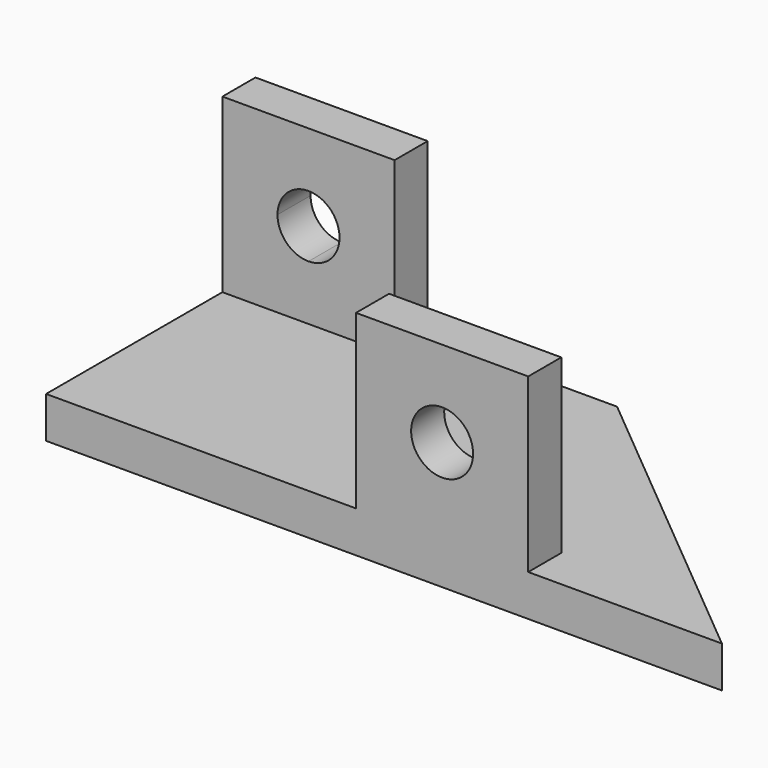
from build123d import *

# Parameters (mm, degrees)
F0_W     = 4.572
F0_H     = 1.524
F0_W_2   = 1.778
F0_H_2   = 8.128
F0_W_3   = 6.35
F1_DEPTH = 1.524
F2_W     = 6.35
F2_H     = 1.524
F3_DEPTH = 6.35
F5_DEPTH = 2.54
F6_DEPTH = 6.35
F7_R     = 1.143
F8_DEPTH = 2.54


with BuildPart() as f1:
    # F0 (on Top) → F1 (new body)
    with BuildSketch(Plane.XY):
        with Locations((3.159252, -4.064)):
            Rectangle(F0_W, F0_H)
        with Locations((-0.015748, 0.762)):
            Rectangle(F0_W_2, F0_H_2)
        Polygon((-0.904748, -3.302), (-0.904748, 4.826), (-6.111748, 4.826), (-6.111748, 3.302), (-12.461748, 3.302), (-12.461748, -4.826), (-0.904748, -4.826), align=None)
        Polygon((7.2287730873, -4.826), (12.461748, -4.826), (0.873252, 4.826), (0.873252, -3.302), (5.445252, -3.302), (5.445252, -4.826), align=None)
        with Locations((-9.286748, 4.064)):
            Rectangle(F0_W_3, F0_H)
        with Locations((-0.015748, -4.064)):
            Rectangle(F0_W_2, F0_H)
    extrude(amount=F1_DEPTH)

    # F2 (on face) → F3 (join)
    with BuildSketch(Plane.XY.offset(1.524)):
        with Locations((-9.286748, 4.064)):
            Rectangle(F2_W, F2_H)
    extrude(amount=F3_DEPTH)

    # F4 (on face) → F5 (cut)
    with BuildSketch(Plane.XZ.offset(-3.302)):
        with BuildLine():
            Line((-9.286748, 4.699), (-8.143748, 4.699))
            ThreePointArc((-8.143748, 4.699), (-8.4785249491, 5.5072230509), (-9.286748, 5.842))
            Line((-9.286748, 5.842), (-9.286748, 4.699))
        make_face()
        with BuildLine():
            Line((-10.429748, 4.699), (-9.286748, 4.699))
            Line((-9.286748, 4.699), (-9.286748, 5.842))
            ThreePointArc((-9.286748, 5.842), (-10.0949710509, 5.5072230509), (-10.429748, 4.699))
        make_face()
        with BuildLine():
            Line((-9.286748, 3.556), (-9.286748, 4.699))
            Line((-9.286748, 4.699), (-10.429748, 4.699))
            ThreePointArc((-10.429748, 4.699), (-10.0949710509, 3.8907769491), (-9.286748, 3.556))
        make_face()
        with BuildLine():
            ThreePointArc((-9.286748, 3.556), (-8.4785249491, 3.8907769491), (-8.143748, 4.699))
            Line((-8.143748, 4.699), (-9.286748, 4.699))
            Line((-9.286748, 4.699), (-9.286748, 3.556))
        make_face()
    extrude(amount=-F5_DEPTH, mode=Mode.SUBTRACT)

    # F2 (on face) → F6 (join)
    with BuildSketch(Plane.XY.offset(1.524)):
        with Locations((2.143252, -4.064)):
            Rectangle(F2_W, F2_H)
    extrude(amount=F6_DEPTH)

    # F7 (on face) → F8 (cut)
    with BuildSketch(Plane(origin=(0, -3.302, 0), x_dir=(-1, 0, 0), z_dir=(0, 1, 0))):
        with Locations((-2.143252, 4.699)):
            Circle(F7_R)
    extrude(amount=-F8_DEPTH, mode=Mode.SUBTRACT)


solid = f1.part
